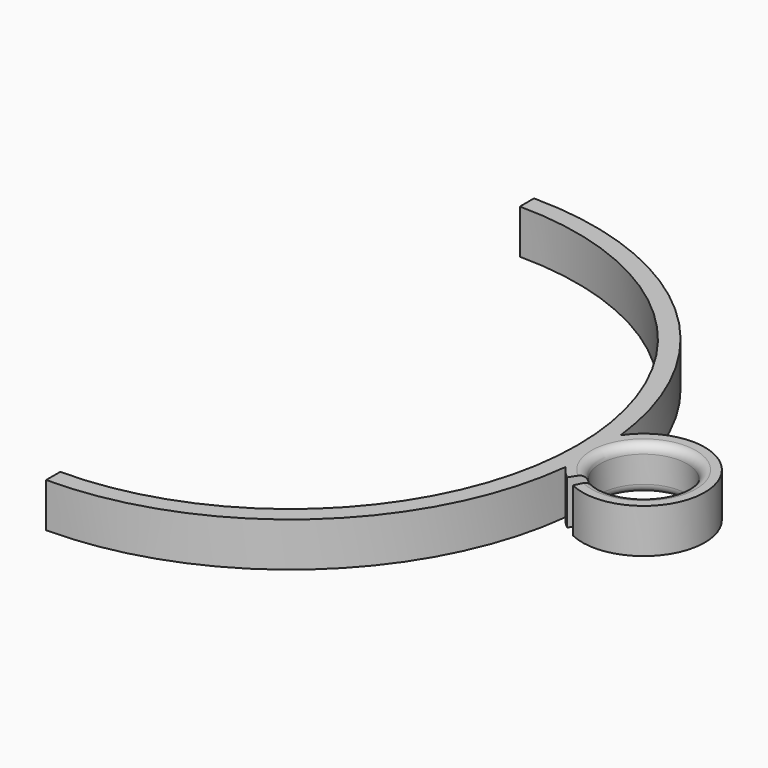
from build123d import *

# Parameters (mm, degrees)
F1_DEPTH = 5
F3_DEPTH = 5
F4_R     = 1


with BuildPart() as f1:
    # F0 (on Top) → F1 (new body)
    with BuildSketch(Plane.XY):
        with BuildLine():
            Line((0, 34.5), (0, 32.5))
            ThreePointArc((0, 32.5), (32.5, 0), (0, -32.5))
            Line((0, -32.5), (0, -34.5))
            ThreePointArc((0, -34.5), (34.5, 0), (0, 34.5))
        make_face()
    extrude(amount=F1_DEPTH)

    # F2 (on Top) → F3 (join)
    with BuildSketch(Plane.XY):
        with BuildLine():
            Line((37.856134, -4.425073), (36.986309, -6.22602))
            ThreePointArc((36.986309, -6.22602), (43.716406, 5.833865), (35.63118, -5.362748))
            Line((35.63118, -5.362748), (36.70016, -3.645338))
            ThreePointArc((36.70016, -3.645338), (42.749633, 4.07639), (37.856134, -4.425073))
        make_face()
    extrude(amount=F3_DEPTH)

    # F4
    f4_edges = [f1.edges().sort_by_distance(p)[0] for p in [
        (42.749633, 4.07639, 0),
        (42.749633, 4.07639, 5),
    ]]
    fillet(f4_edges, radius=F4_R)


solid = f1.part
